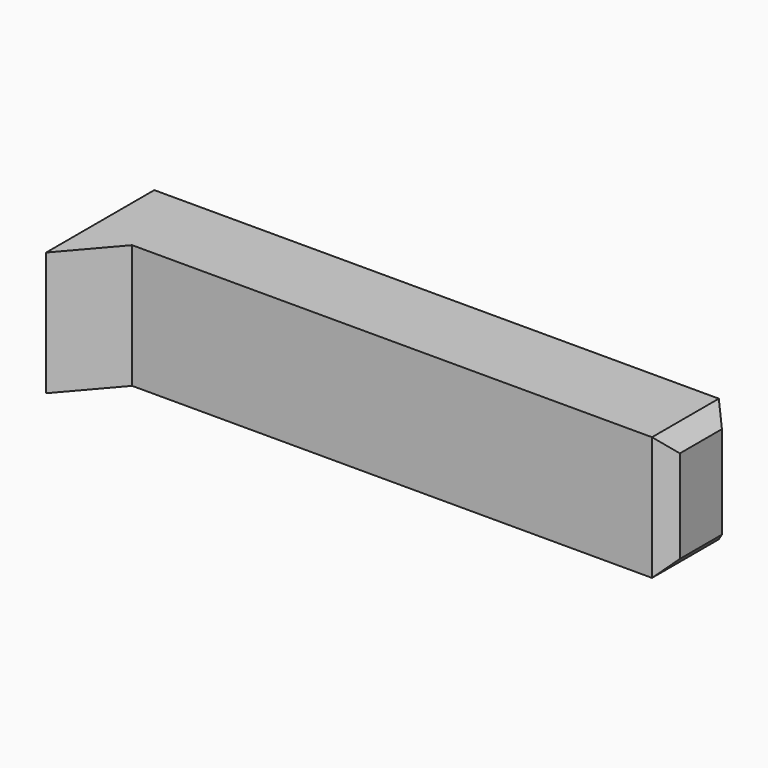
from build123d import *

# Parameters (mm, degrees)
F1_DEPTH = 4
F2_SIZE  = 0.5


with BuildPart() as f1:
    # F0 (on Top) → F1 (new body)
    with BuildSketch(Plane.XY):
        Polygon((18.731059, -2.697522), (18.731059, 0), (0, 0), (0, -4.367872), (1.441814, -2.697522), align=None)
    extrude(amount=-F1_DEPTH)

    # F2
    f2_edges = [f1.edges().sort_by_distance(p)[0] for p in [
        (18.731059, -2.697522, -2),
        (18.731059, -1.348761, 0),
        (18.731059, 0, -2),
        (18.731059, -1.348761, -4),
    ]]
    chamfer(f2_edges, length=F2_SIZE)


solid = f1.part
